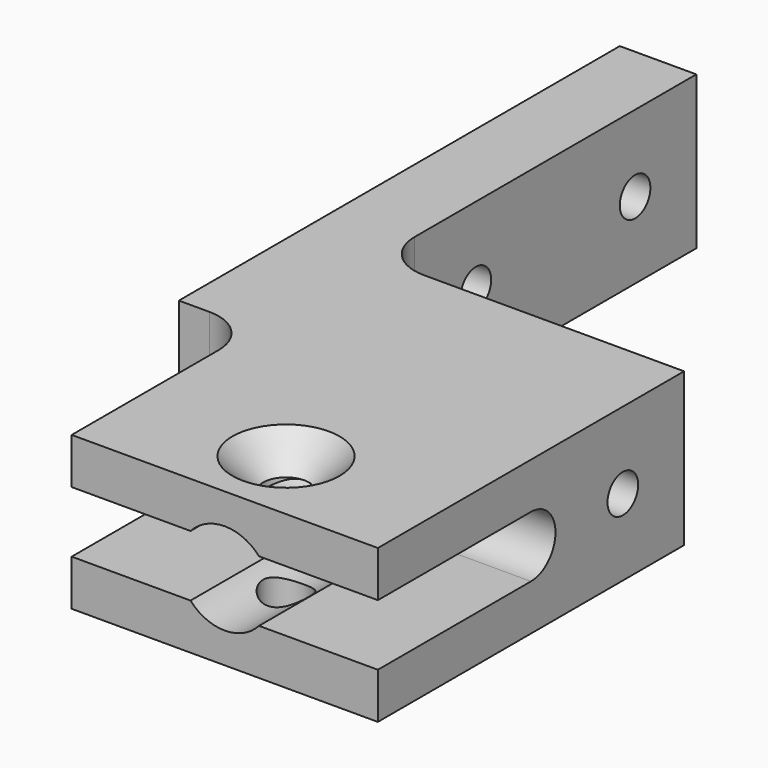
from build123d import *

# Parameters (mm, degrees)
F0_R      = 1.5
F1_DEPTH  = 10
F3_DEPTH  = 25.001001
F4_R      = 1.25
F5_DEPTH  = 25.001001
F6_R      = 1
F7_DEPTH  = 25.001
F6_R_2    = 3
F8_DEPTH  = 4
F2_R      = 1.25
F9_DEPTH  = 10
F10_SIZE  = 2
F11_R     = 3
F12_DEPTH = 17


with BuildPart() as f1:
    # F0 (on Top) → F1 (new body)
    with BuildSketch(Plane.XY):
        Polygon((10.000001, -25), (10.000001, 0), (-7, 0), (-10, 0), (-10, 3), (-10, 26), (-15, 26), (-15, -10), (-13, -10), (-10, -10), (-10, -13), (-10, -25), align=None)
        with Locations((0, -20)):
            Circle(F0_R, mode=Mode.SUBTRACT)
        with BuildLine():
            ThreePointArc((-13, -10), (-10.87868, -10.87868), (-10, -13))
            Line((-10, -13), (-10, -10))
            Line((-10, -10), (-13, -10))
        make_face()
        with BuildLine():
            Line((-10, 0), (-7, 0))
            ThreePointArc((-7, 0), (-9.12132, 0.87868), (-10, 3))
            Line((-10, 3), (-10, 0))
        make_face()
    extrude(amount=F1_DEPTH)

    # F2 (on face) → F3 (cut, through all)
    with BuildSketch(Plane.YZ.offset(10.000001)):
        with BuildLine():
            Line((-12.5, 7), (-25, 7))
            Line((-25, 7), (-25, 3))
            Line((-25, 3), (-12.5, 3))
            ThreePointArc((-12.5, 3), (-10.5, 5), (-12.5, 7))
        make_face()
    extrude(amount=-F3_DEPTH, mode=Mode.SUBTRACT)

    # F4 (on face) → F5 (cut, through all)
    with BuildSketch(Plane(origin=(-15, 0, 0), x_dir=(0, -1, 0), z_dir=(-1, 0, 0))):
        with Locations((-8, 5)):
            Circle(F4_R)
        with Locations((-21, 5)):
            Circle(F4_R)
    extrude(amount=-F5_DEPTH, mode=Mode.SUBTRACT)

    # F6 (on face) → F7 (cut, through all)
    with BuildSketch(Plane(origin=(0, 0, 0), x_dir=(-1, 0, 0), z_dir=(0, 1, 0))):
        with Locations((0, 5)):
            Circle(F6_R)
    extrude(amount=-F7_DEPTH, mode=Mode.SUBTRACT)

    # F6 (on face) → F8 (cut)
    with BuildSketch(Plane(origin=(0, 0, 0), x_dir=(-1, 0, 0), z_dir=(0, 1, 0))):
        with Locations((0, 5)):
            Circle(F6_R_2)
        with Locations((0, 5)):
            Circle(F6_R, mode=Mode.SUBTRACT)
    extrude(amount=-F8_DEPTH, mode=Mode.SUBTRACT)

    # F2 (on face) → F9 (cut)
    with BuildSketch(Plane.YZ.offset(10.000001)):
        with Locations((-5, 5)):
            Circle(F2_R)
    extrude(amount=-F9_DEPTH, mode=Mode.SUBTRACT)

    # F10
    f10_edges = [f1.edges().sort_by_distance(p)[0] for p in [
        (-1.5, -20, 10),
        (-15, 22.25, 5),
    ]]
    chamfer(f10_edges, length=F10_SIZE)

    # F11 (on face) → F12 (cut)
    with BuildSketch(Plane.XZ.offset(25)):
        with Locations((0, 5)):
            Circle(F11_R)
    extrude(amount=-F12_DEPTH, mode=Mode.SUBTRACT)


solid = f1.part
